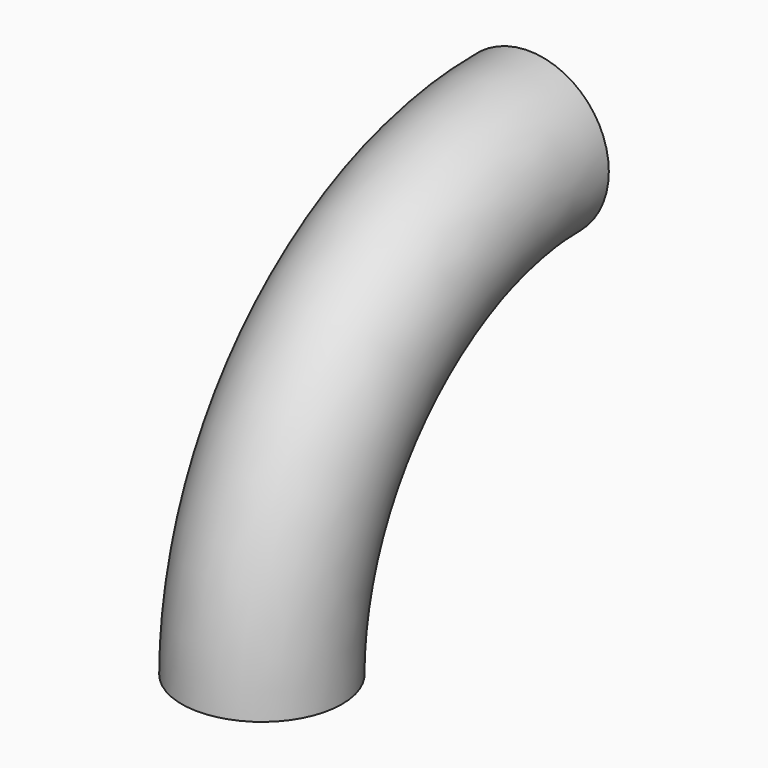
from build123d import *

# Parameters (mm, degrees)
F0_R     = 12.7
F2_ANGLE = -90


with BuildPart() as f2:
    # F0 (on Top) → F2 (revolve)
    with BuildSketch(Plane.XY):
        Circle(F0_R)
    revolve(axis=Axis((1.929176, 52.798476, 0), (1, 0, 0)), revolution_arc=F2_ANGLE)


solid = f2.part
